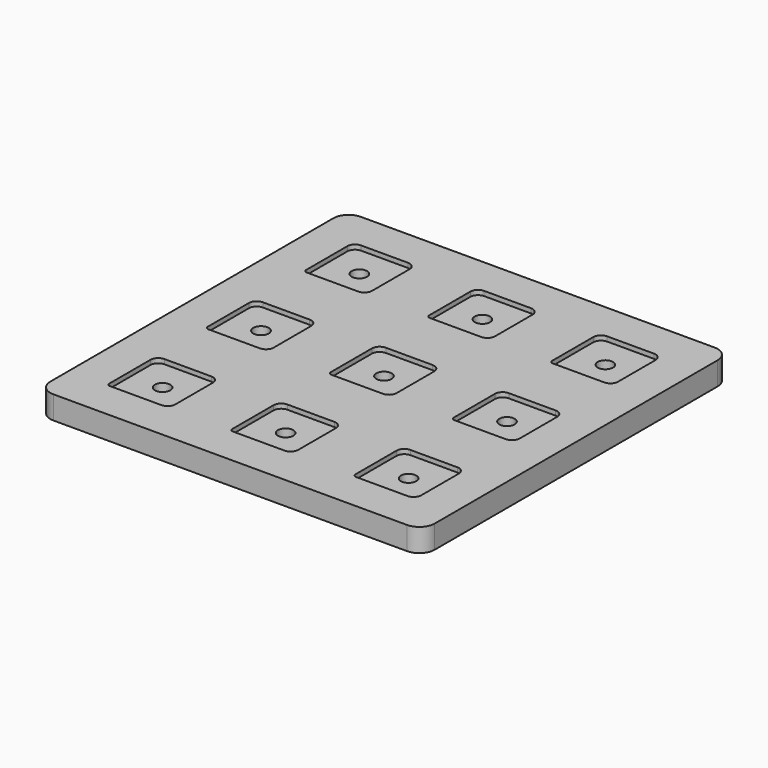
from build123d import *

# Parameters (mm, degrees)
F0_R     = 5
F1_DEPTH = 15
F2_DEPTH = 3


with BuildPart() as f1:
    # F0 (on Top) → F1 (new body)
    with BuildSketch(Plane.XY):
        with BuildLine():
            ThreePointArc((0, 10), (2.928932, 2.928932), (10, 0))
            Line((10, 0), (240, 0))
            ThreePointArc((240, 0), (247.071068, 2.928932), (250, 10))
            Line((250, 10), (250, 240))
            ThreePointArc((250, 240), (247.071068, 247.071068), (240, 250))
            Line((240, 250), (10, 250))
            ThreePointArc((10, 250), (2.928932, 247.071068), (0, 240))
            Line((0, 240), (0, 10))
        make_face()
        with BuildLine():
            ThreePointArc((24.75, 60.5), (26.214466, 64.035534), (29.75, 65.5))
            Line((29.75, 65.5), (60.25, 65.5))
            ThreePointArc((60.25, 65.5), (63.785534, 64.035534), (65.25, 60.5))
            Line((65.25, 60.5), (65.25, 30))
            ThreePointArc((65.25, 30), (63.785534, 26.464466), (60.25, 25))
            Line((60.25, 25), (26.75, 25))
            ThreePointArc((26.75, 25), (25.335786, 25.585786), (24.75, 27))
            Line((24.75, 27), (24.75, 60.5))
        make_face(mode=Mode.SUBTRACT)
        with BuildLine():
            ThreePointArc((104.75, 60.5), (106.214466, 64.035534), (109.75, 65.5))
            Line((109.75, 65.5), (140.25, 65.5))
            ThreePointArc((140.25, 65.5), (143.785534, 64.035534), (145.25, 60.5))
            Line((145.25, 60.5), (145.25, 30))
            ThreePointArc((145.25, 30), (143.785534, 26.464466), (140.25, 25))
            Line((140.25, 25), (106.75, 25))
            ThreePointArc((106.75, 25), (105.335786, 25.585786), (104.75, 27))
            Line((104.75, 27), (104.75, 60.5))
        make_face(mode=Mode.SUBTRACT)
        with BuildLine():
            Line((220.25, 25), (186.75, 25))
            ThreePointArc((186.75, 25), (185.335786, 25.585786), (184.75, 27))
            Line((184.75, 27), (184.75, 60.5))
            ThreePointArc((184.75, 60.5), (186.214466, 64.035534), (189.75, 65.5))
            Line((189.75, 65.5), (220.25, 65.5))
            ThreePointArc((220.25, 65.5), (223.785534, 64.035534), (225.25, 60.5))
            Line((225.25, 60.5), (225.25, 30))
            ThreePointArc((225.25, 30), (223.785534, 26.464466), (220.25, 25))
        make_face(mode=Mode.SUBTRACT)
        with BuildLine():
            ThreePointArc((24.75, 140.5), (26.214466, 144.035534), (29.75, 145.5))
            Line((29.75, 145.5), (60.25, 145.5))
            ThreePointArc((60.25, 145.5), (63.785534, 144.035534), (65.25, 140.5))
            Line((65.25, 140.5), (65.25, 110))
            ThreePointArc((65.25, 110), (63.785534, 106.464466), (60.25, 105))
            Line((60.25, 105), (26.75, 105))
            ThreePointArc((26.75, 105), (25.335786, 105.585786), (24.75, 107))
            Line((24.75, 107), (24.75, 140.5))
        make_face(mode=Mode.SUBTRACT)
        with BuildLine():
            ThreePointArc((24.75, 220.5), (26.214466, 224.035534), (29.75, 225.5))
            Line((29.75, 225.5), (60.25, 225.5))
            ThreePointArc((60.25, 225.5), (63.785534, 224.035534), (65.25, 220.5))
            Line((65.25, 220.5), (65.25, 190))
            ThreePointArc((65.25, 190), (63.785534, 186.464466), (60.25, 185))
            Line((60.25, 185), (26.75, 185))
            ThreePointArc((26.75, 185), (25.335786, 185.585786), (24.75, 187))
            Line((24.75, 187), (24.75, 220.5))
        make_face(mode=Mode.SUBTRACT)
        with BuildLine():
            ThreePointArc((104.75, 140.5), (106.214466, 144.035534), (109.75, 145.5))
            Line((109.75, 145.5), (140.25, 145.5))
            ThreePointArc((140.25, 145.5), (143.785534, 144.035534), (145.25, 140.5))
            Line((145.25, 140.5), (145.25, 110))
            ThreePointArc((145.25, 110), (143.785534, 106.464466), (140.25, 105))
            Line((140.25, 105), (106.75, 105))
            ThreePointArc((106.75, 105), (105.335786, 105.585786), (104.75, 107))
            Line((104.75, 107), (104.75, 140.5))
        make_face(mode=Mode.SUBTRACT)
        with BuildLine():
            ThreePointArc((184.75, 140.5), (186.214466, 144.035534), (189.75, 145.5))
            Line((189.75, 145.5), (220.25, 145.5))
            ThreePointArc((220.25, 145.5), (223.785534, 144.035534), (225.25, 140.5))
            Line((225.25, 140.5), (225.25, 110))
            ThreePointArc((225.25, 110), (223.785534, 106.464466), (220.25, 105))
            Line((220.25, 105), (186.75, 105))
            ThreePointArc((186.75, 105), (185.335786, 105.585786), (184.75, 107))
            Line((184.75, 107), (184.75, 140.5))
        make_face(mode=Mode.SUBTRACT)
        with BuildLine():
            ThreePointArc((104.75, 220.5), (106.214466, 224.035534), (109.75, 225.5))
            Line((109.75, 225.5), (140.25, 225.5))
            ThreePointArc((140.25, 225.5), (143.785534, 224.035534), (145.25, 220.5))
            Line((145.25, 220.5), (145.25, 190))
            ThreePointArc((145.25, 190), (143.785534, 186.464466), (140.25, 185))
            Line((140.25, 185), (106.75, 185))
            ThreePointArc((106.75, 185), (105.335786, 185.585786), (104.75, 187))
            Line((104.75, 187), (104.75, 220.5))
        make_face(mode=Mode.SUBTRACT)
        with BuildLine():
            ThreePointArc((184.75, 220.5), (186.214466, 224.035534), (189.75, 225.5))
            Line((189.75, 225.5), (220.25, 225.5))
            ThreePointArc((220.25, 225.5), (223.785534, 224.035534), (225.25, 220.5))
            Line((225.25, 220.5), (225.25, 190))
            ThreePointArc((225.25, 190), (223.785534, 186.464466), (220.25, 185))
            Line((220.25, 185), (186.75, 185))
            ThreePointArc((186.75, 185), (185.335786, 185.585786), (184.75, 187))
            Line((184.75, 187), (184.75, 220.5))
        make_face(mode=Mode.SUBTRACT)
        with BuildLine():
            Line((140.25, 225.5), (109.75, 225.5))
            ThreePointArc((109.75, 225.5), (106.214466, 224.035534), (104.75, 220.5))
            Line((104.75, 220.5), (104.75, 187))
            ThreePointArc((104.75, 187), (105.335786, 185.585786), (106.75, 185))
            Line((106.75, 185), (140.25, 185))
            ThreePointArc((140.25, 185), (143.785534, 186.464466), (145.25, 190))
            Line((145.25, 190), (145.25, 220.5))
            ThreePointArc((145.25, 220.5), (143.785534, 224.035534), (140.25, 225.5))
        make_face()
        with Locations((125, 205)):
            Circle(F0_R, mode=Mode.SUBTRACT)
        with BuildLine():
            Line((60.25, 225.5), (29.75, 225.5))
            ThreePointArc((29.75, 225.5), (26.214466, 224.035534), (24.75, 220.5))
            Line((24.75, 220.5), (24.75, 187))
            ThreePointArc((24.75, 187), (25.335786, 185.585786), (26.75, 185))
            Line((26.75, 185), (60.25, 185))
            ThreePointArc((60.25, 185), (63.785534, 186.464466), (65.25, 190))
            Line((65.25, 190), (65.25, 220.5))
            ThreePointArc((65.25, 220.5), (63.785534, 224.035534), (60.25, 225.5))
        make_face()
        with Locations((45, 205)):
            Circle(F0_R, mode=Mode.SUBTRACT)
        with BuildLine():
            Line((220.25, 225.5), (189.75, 225.5))
            ThreePointArc((189.75, 225.5), (186.214466, 224.035534), (184.75, 220.5))
            Line((184.75, 220.5), (184.75, 187))
            ThreePointArc((184.75, 187), (185.335786, 185.585786), (186.75, 185))
            Line((186.75, 185), (220.25, 185))
            ThreePointArc((220.25, 185), (223.785534, 186.464466), (225.25, 190))
            Line((225.25, 190), (225.25, 220.5))
            ThreePointArc((225.25, 220.5), (223.785534, 224.035534), (220.25, 225.5))
        make_face()
        with Locations((205, 205)):
            Circle(F0_R, mode=Mode.SUBTRACT)
        with BuildLine():
            Line((220.25, 145.5), (189.75, 145.5))
            ThreePointArc((189.75, 145.5), (186.214466, 144.035534), (184.75, 140.5))
            Line((184.75, 140.5), (184.75, 107))
            ThreePointArc((184.75, 107), (185.335786, 105.585786), (186.75, 105))
            Line((186.75, 105), (220.25, 105))
            ThreePointArc((220.25, 105), (223.785534, 106.464466), (225.25, 110))
            Line((225.25, 110), (225.25, 140.5))
            ThreePointArc((225.25, 140.5), (223.785534, 144.035534), (220.25, 145.5))
        make_face()
        with Locations((205, 125)):
            Circle(F0_R, mode=Mode.SUBTRACT)
        with BuildLine():
            Line((140.25, 145.5), (109.75, 145.5))
            ThreePointArc((109.75, 145.5), (106.214466, 144.035534), (104.75, 140.5))
            Line((104.75, 140.5), (104.75, 107))
            ThreePointArc((104.75, 107), (105.335786, 105.585786), (106.75, 105))
            Line((106.75, 105), (140.25, 105))
            ThreePointArc((140.25, 105), (143.785534, 106.464466), (145.25, 110))
            Line((145.25, 110), (145.25, 140.5))
            ThreePointArc((145.25, 140.5), (143.785534, 144.035534), (140.25, 145.5))
        make_face()
        with Locations((125, 125)):
            Circle(F0_R, mode=Mode.SUBTRACT)
        with BuildLine():
            Line((60.25, 145.5), (29.75, 145.5))
            ThreePointArc((29.75, 145.5), (26.214466, 144.035534), (24.75, 140.5))
            Line((24.75, 140.5), (24.75, 107))
            ThreePointArc((24.75, 107), (25.335786, 105.585786), (26.75, 105))
            Line((26.75, 105), (60.25, 105))
            ThreePointArc((60.25, 105), (63.785534, 106.464466), (65.25, 110))
            Line((65.25, 110), (65.25, 140.5))
            ThreePointArc((65.25, 140.5), (63.785534, 144.035534), (60.25, 145.5))
        make_face()
        with Locations((45, 125)):
            Circle(F0_R, mode=Mode.SUBTRACT)
        with BuildLine():
            Line((60.25, 65.5), (29.75, 65.5))
            ThreePointArc((29.75, 65.5), (26.214466, 64.035534), (24.75, 60.5))
            Line((24.75, 60.5), (24.75, 27))
            ThreePointArc((24.75, 27), (25.335786, 25.585786), (26.75, 25))
            Line((26.75, 25), (60.25, 25))
            ThreePointArc((60.25, 25), (63.785534, 26.464466), (65.25, 30))
            Line((65.25, 30), (65.25, 60.5))
            ThreePointArc((65.25, 60.5), (63.785534, 64.035534), (60.25, 65.5))
        make_face()
        with Locations((45, 45)):
            Circle(F0_R, mode=Mode.SUBTRACT)
        with BuildLine():
            Line((140.25, 65.5), (109.75, 65.5))
            ThreePointArc((109.75, 65.5), (106.214466, 64.035534), (104.75, 60.5))
            Line((104.75, 60.5), (104.75, 27))
            ThreePointArc((104.75, 27), (105.335786, 25.585786), (106.75, 25))
            Line((106.75, 25), (140.25, 25))
            ThreePointArc((140.25, 25), (143.785534, 26.464466), (145.25, 30))
            Line((145.25, 30), (145.25, 60.5))
            ThreePointArc((145.25, 60.5), (143.785534, 64.035534), (140.25, 65.5))
        make_face()
        with Locations((125, 45)):
            Circle(F0_R, mode=Mode.SUBTRACT)
        with BuildLine():
            ThreePointArc((184.75, 27), (185.335786, 25.585786), (186.75, 25))
            Line((186.75, 25), (220.25, 25))
            ThreePointArc((220.25, 25), (223.785534, 26.464466), (225.25, 30))
            Line((225.25, 30), (225.25, 60.5))
            ThreePointArc((225.25, 60.5), (223.785534, 64.035534), (220.25, 65.5))
            Line((220.25, 65.5), (189.75, 65.5))
            ThreePointArc((189.75, 65.5), (186.214466, 64.035534), (184.75, 60.5))
            Line((184.75, 60.5), (184.75, 27))
        make_face()
        with Locations((205, 45)):
            Circle(F0_R, mode=Mode.SUBTRACT)
    extrude(amount=-F1_DEPTH)

    # F0 (on Top) → F2 (cut)
    with BuildSketch(Plane.XY):
        with BuildLine():
            Line((60.25, 225.5), (29.75, 225.5))
            ThreePointArc((29.75, 225.5), (26.214466, 224.035534), (24.75, 220.5))
            Line((24.75, 220.5), (24.75, 187))
            ThreePointArc((24.75, 187), (25.335786, 185.585786), (26.75, 185))
            Line((26.75, 185), (60.25, 185))
            ThreePointArc((60.25, 185), (63.785534, 186.464466), (65.25, 190))
            Line((65.25, 190), (65.25, 220.5))
            ThreePointArc((65.25, 220.5), (63.785534, 224.035534), (60.25, 225.5))
        make_face()
        with Locations((45, 205)):
            Circle(F0_R, mode=Mode.SUBTRACT)
        with BuildLine():
            Line((60.25, 145.5), (29.75, 145.5))
            ThreePointArc((29.75, 145.5), (26.214466, 144.035534), (24.75, 140.5))
            Line((24.75, 140.5), (24.75, 107))
            ThreePointArc((24.75, 107), (25.335786, 105.585786), (26.75, 105))
            Line((26.75, 105), (60.25, 105))
            ThreePointArc((60.25, 105), (63.785534, 106.464466), (65.25, 110))
            Line((65.25, 110), (65.25, 140.5))
            ThreePointArc((65.25, 140.5), (63.785534, 144.035534), (60.25, 145.5))
        make_face()
        with Locations((45, 125)):
            Circle(F0_R, mode=Mode.SUBTRACT)
        with BuildLine():
            Line((60.25, 65.5), (29.75, 65.5))
            ThreePointArc((29.75, 65.5), (26.214466, 64.035534), (24.75, 60.5))
            Line((24.75, 60.5), (24.75, 27))
            ThreePointArc((24.75, 27), (25.335786, 25.585786), (26.75, 25))
            Line((26.75, 25), (60.25, 25))
            ThreePointArc((60.25, 25), (63.785534, 26.464466), (65.25, 30))
            Line((65.25, 30), (65.25, 60.5))
            ThreePointArc((65.25, 60.5), (63.785534, 64.035534), (60.25, 65.5))
        make_face()
        with Locations((45, 45)):
            Circle(F0_R, mode=Mode.SUBTRACT)
        with BuildLine():
            Line((140.25, 65.5), (109.75, 65.5))
            ThreePointArc((109.75, 65.5), (106.214466, 64.035534), (104.75, 60.5))
            Line((104.75, 60.5), (104.75, 27))
            ThreePointArc((104.75, 27), (105.335786, 25.585786), (106.75, 25))
            Line((106.75, 25), (140.25, 25))
            ThreePointArc((140.25, 25), (143.785534, 26.464466), (145.25, 30))
            Line((145.25, 30), (145.25, 60.5))
            ThreePointArc((145.25, 60.5), (143.785534, 64.035534), (140.25, 65.5))
        make_face()
        with Locations((125, 45)):
            Circle(F0_R, mode=Mode.SUBTRACT)
        with BuildLine():
            Line((140.25, 145.5), (109.75, 145.5))
            ThreePointArc((109.75, 145.5), (106.214466, 144.035534), (104.75, 140.5))
            Line((104.75, 140.5), (104.75, 107))
            ThreePointArc((104.75, 107), (105.335786, 105.585786), (106.75, 105))
            Line((106.75, 105), (140.25, 105))
            ThreePointArc((140.25, 105), (143.785534, 106.464466), (145.25, 110))
            Line((145.25, 110), (145.25, 140.5))
            ThreePointArc((145.25, 140.5), (143.785534, 144.035534), (140.25, 145.5))
        make_face()
        with Locations((125, 125)):
            Circle(F0_R, mode=Mode.SUBTRACT)
        with BuildLine():
            Line((140.25, 225.5), (109.75, 225.5))
            ThreePointArc((109.75, 225.5), (106.214466, 224.035534), (104.75, 220.5))
            Line((104.75, 220.5), (104.75, 187))
            ThreePointArc((104.75, 187), (105.335786, 185.585786), (106.75, 185))
            Line((106.75, 185), (140.25, 185))
            ThreePointArc((140.25, 185), (143.785534, 186.464466), (145.25, 190))
            Line((145.25, 190), (145.25, 220.5))
            ThreePointArc((145.25, 220.5), (143.785534, 224.035534), (140.25, 225.5))
        make_face()
        with Locations((125, 205)):
            Circle(F0_R, mode=Mode.SUBTRACT)
        with BuildLine():
            Line((220.25, 225.5), (189.75, 225.5))
            ThreePointArc((189.75, 225.5), (186.214466, 224.035534), (184.75, 220.5))
            Line((184.75, 220.5), (184.75, 187))
            ThreePointArc((184.75, 187), (185.335786, 185.585786), (186.75, 185))
            Line((186.75, 185), (220.25, 185))
            ThreePointArc((220.25, 185), (223.785534, 186.464466), (225.25, 190))
            Line((225.25, 190), (225.25, 220.5))
            ThreePointArc((225.25, 220.5), (223.785534, 224.035534), (220.25, 225.5))
        make_face()
        with Locations((205, 205)):
            Circle(F0_R, mode=Mode.SUBTRACT)
        with BuildLine():
            Line((220.25, 145.5), (189.75, 145.5))
            ThreePointArc((189.75, 145.5), (186.214466, 144.035534), (184.75, 140.5))
            Line((184.75, 140.5), (184.75, 107))
            ThreePointArc((184.75, 107), (185.335786, 105.585786), (186.75, 105))
            Line((186.75, 105), (220.25, 105))
            ThreePointArc((220.25, 105), (223.785534, 106.464466), (225.25, 110))
            Line((225.25, 110), (225.25, 140.5))
            ThreePointArc((225.25, 140.5), (223.785534, 144.035534), (220.25, 145.5))
        make_face()
        with Locations((205, 125)):
            Circle(F0_R, mode=Mode.SUBTRACT)
        with BuildLine():
            ThreePointArc((184.75, 27), (185.335786, 25.585786), (186.75, 25))
            Line((186.75, 25), (220.25, 25))
            ThreePointArc((220.25, 25), (223.785534, 26.464466), (225.25, 30))
            Line((225.25, 30), (225.25, 60.5))
            ThreePointArc((225.25, 60.5), (223.785534, 64.035534), (220.25, 65.5))
            Line((220.25, 65.5), (189.75, 65.5))
            ThreePointArc((189.75, 65.5), (186.214466, 64.035534), (184.75, 60.5))
            Line((184.75, 60.5), (184.75, 27))
        make_face()
        with Locations((205, 45)):
            Circle(F0_R, mode=Mode.SUBTRACT)
    extrude(amount=-F2_DEPTH, mode=Mode.SUBTRACT)


solid = f1.part
